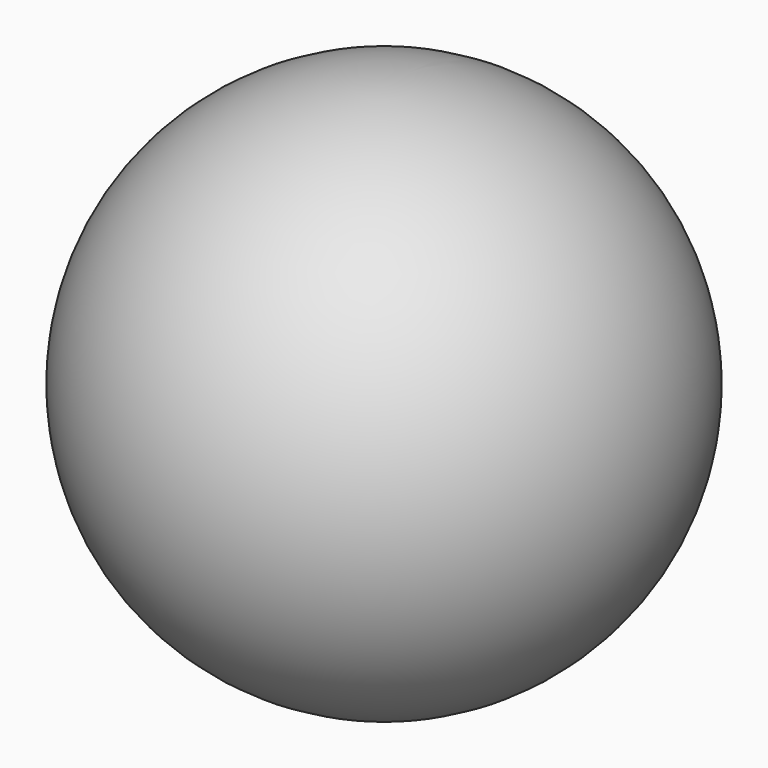
from build123d import *


with BuildPart() as f1:
    # F0 (on Right) → F1 (revolve)
    with BuildSketch(Plane.YZ):
        with BuildLine():
            ThreePointArc((0, -9), (9, 0), (0, 9))
            Line((0, 9), (0, -9))
        make_face()
    revolve(axis=Axis((0, 0, 0), (0, 0, -1)))


solid = f1.part
